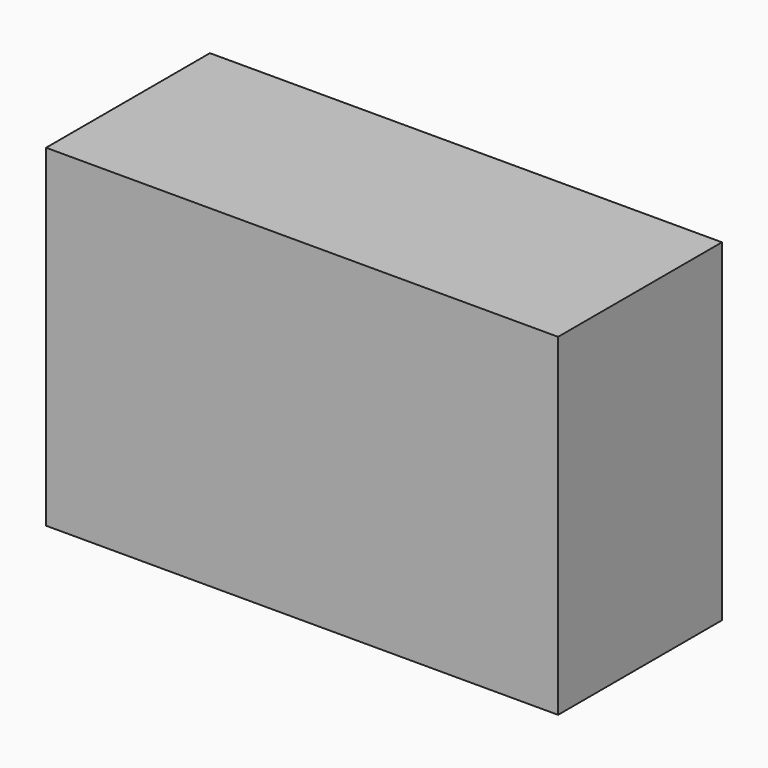
from build123d import *

# Parameters (mm, degrees)
F0_W     = 20
F0_H     = 8
F1_DEPTH = 1
F2_W     = 20
F2_H     = 8
F2_W_2   = 14
F2_H_2   = 0.5
F3_DEPTH = 10
F6_DEPTH = 14
F7_W     = 20
F7_H     = 8
F8_DEPTH = 2


with BuildPart() as f1:
    # F0 (on Top) → F1 (new body)
    with BuildSketch(Plane.XY):
        Rectangle(F0_W, F0_H)
    extrude(amount=F1_DEPTH)

    # F2 (on face) → F3 (join)
    with BuildSketch(Plane.XY.offset(1)):
        Rectangle(F2_W, F2_H)
        Rectangle(F2_W_2, F2_H_2, mode=Mode.SUBTRACT)
    extrude(amount=F3_DEPTH)

    # F5 (on face) → F6 (join, through all)
    with BuildSketch(Plane.YZ.offset(-7)):
        Polygon((0, 8.26), (0.25, 8.01), (0.25, 8.51), align=None)
        Polygon((-0.25, 8.01), (0, 8.26), (-0.25, 8.51), align=None)
        Polygon((-0.25, 8.51), (0, 8.26), (0.25, 8.51), (0.25, 11), (-0.25, 11), align=None)
        Polygon((0.25, 11), (0.25, 8.51), (2.74, 11), align=None)
        Polygon((-2.74, 11), (-0.25, 8.51), (-0.25, 11), align=None)
    extrude(amount=F6_DEPTH)

    # F7 (on face) → F8 (join)
    with BuildSketch(Plane.XY.offset(11)):
        Rectangle(F7_W, F7_H)
    extrude(amount=F8_DEPTH)


solid = f1.part
